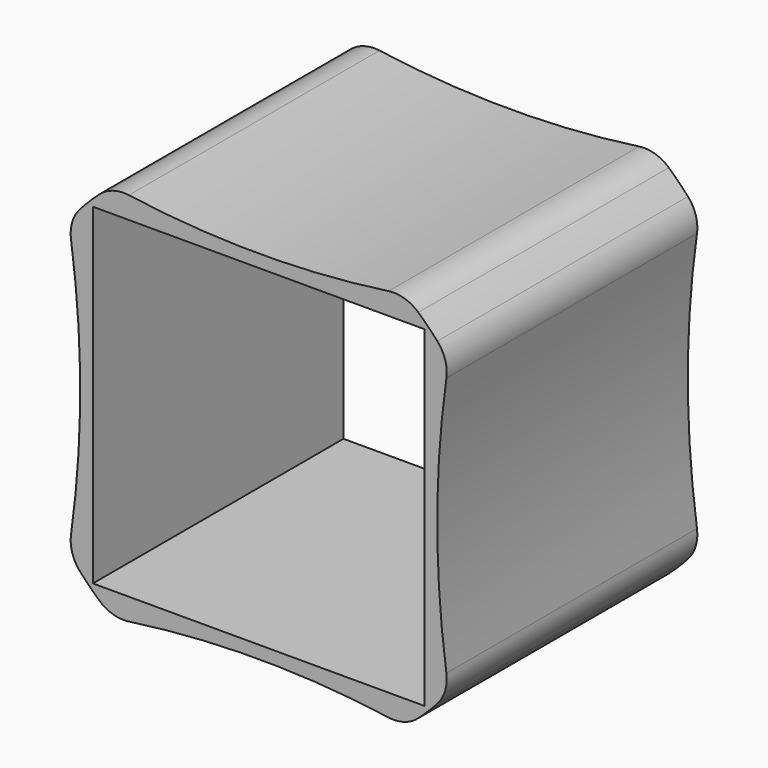
from build123d import *

# Parameters (mm, degrees)
F0_W     = 114.3
F0_H     = 114.3
F1_DEPTH = 107.95
F2_R     = 12.7


with BuildPart() as f1:
    # F0 (on Front) → F1 (new body)
    with BuildSketch(Plane.XZ):
        with BuildLine():
            ThreePointArc((50.235812, 65.5047), (0, 61.526428), (-50.235812, 65.5047))
            ThreePointArc((-50.235812, 65.5047), (-58.371665, 58.371665), (-65.5047, 50.235812))
            ThreePointArc((-65.5047, 50.235812), (-61.526428, 0), (-65.5047, -50.235812))
            ThreePointArc((-65.5047, -50.235812), (-58.371665, -58.371665), (-50.235812, -65.5047))
            ThreePointArc((-50.235812, -65.5047), (0, -61.526428), (50.235812, -65.5047))
            ThreePointArc((50.235812, -65.5047), (58.371665, -58.371665), (65.5047, -50.235812))
            ThreePointArc((65.5047, -50.235812), (61.526428, 0), (65.5047, 50.235812))
            ThreePointArc((65.5047, 50.235812), (58.371665, 58.371665), (50.235812, 65.5047))
        make_face()
        Rectangle(F0_W, F0_H, mode=Mode.SUBTRACT)
    extrude(amount=F1_DEPTH)

    # F2
    f2_edges = [f1.edges().sort_by_distance(p)[0] for p in [
        (-65.5047, -53.975, 50.235812),
        (-50.235812, -53.975, 65.5047),
        (50.235812, -53.975, 65.5047),
        (65.5047, -53.975, 50.235812),
        (50.235812, -53.975, -65.5047),
        (65.5047, -53.975, -50.235812),
        (-50.235812, -53.975, -65.5047),
        (-65.5047, -53.975, -50.235812),
    ]]
    fillet(f2_edges, radius=F2_R)


solid = f1.part
